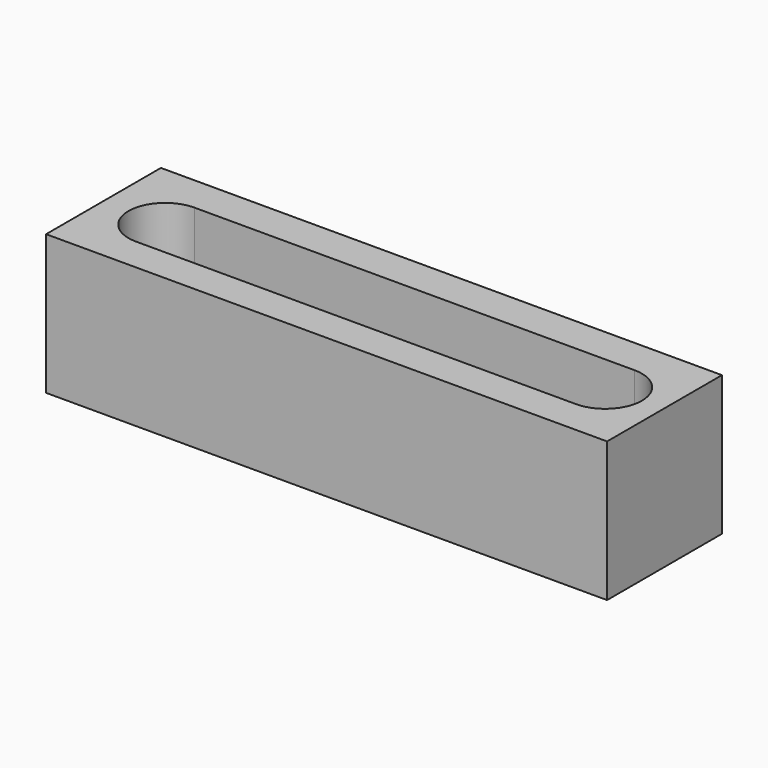
from build123d import *

# Parameters (mm, degrees)
F0_W     = 80.311564
F0_H     = 20.548185
F1_DEPTH = 20


with BuildPart() as f1:
    # F0 (on Top) → F1 (new body)
    with BuildSketch(Plane.XY):
        with Locations((31.210588, 0.144705)):
            Rectangle(F0_W, F0_H)
        with BuildLine():
            ThreePointArc((0, -5.25), (-5.25, 0), (0, 5.25))
            Line((0, 5.25), (10.5, 5.25))
            Line((10.5, 5.25), (21, 5.25))
            Line((21, 5.25), (31.5, 5.25))
            Line((31.5, 5.25), (42, 5.25))
            Line((42, 5.25), (52.5, 5.25))
            Line((52.5, 5.25), (63, 5.25))
            ThreePointArc((63, 5.25), (66.712311, 3.712311), (68.25, 0))
            ThreePointArc((68.25, 0), (66.712311, -3.712311), (63, -5.25))
            Line((63, -5.25), (52.5, -5.25))
            Line((52.5, -5.25), (42, -5.25))
            Line((42, -5.25), (31.5, -5.25))
            Line((31.5, -5.25), (21, -5.25))
            Line((21, -5.25), (10.5, -5.25))
            Line((10.5, -5.25), (0, -5.25))
        make_face(mode=Mode.SUBTRACT)
    extrude(amount=F1_DEPTH)


solid = f1.part
